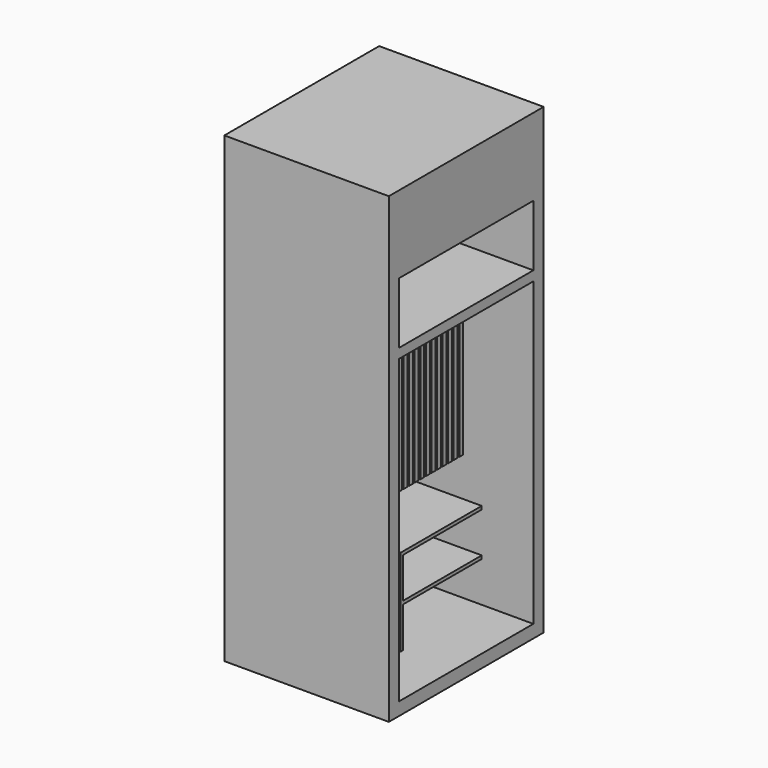
from build123d import *

# Parameters (mm, degrees)
F0_W      = 1020
F0_H      = 1200
F1_DEPTH  = 2870
F2_T      = -80
F3_W      = 80
F3_H      = 1040
F4_DEPTH  = 400
F5_W      = 940
F5_H      = 60
F6_DEPTH  = 1066.8
F7_W      = 620
F7_H      = 820
F8_DEPTH  = 630
F9_W      = 610.0102
F9_H      = 260
F9_H_2    = 250
F10_DEPTH = 620
F11_R     = 35
F12_DEPTH = 1066.8
F13_W     = 19.9898
F13_H     = 260
F13_W_2   = 610.0102
F13_H_2   = 20
F14_DEPTH = 620
F15_W     = 30.48
F15_H     = 965.2
F16_DEPTH = 508


with BuildPart() as f1:
    # F0 (on Top) → F1 (new body)
    with BuildSketch(Plane.XY):
        Rectangle(F0_W, F0_H)
    extrude(amount=F1_DEPTH)

    # F2
    f2_openings = [f1.faces().sort_by_distance(p)[0] for p in [
        (510, 0, 1435),
    ]]
    offset(amount=F2_T, openings=f2_openings)

    # F3 (on face) → F4 (join)
    with BuildSketch(Plane(origin=(0, 0, 2790), x_dir=(1, 0, 0), z_dir=(0, 0, -1))):
        with Locations((470, 0)):
            Rectangle(F3_W, F3_H)
    extrude(amount=F4_DEPTH)

    # F5 (on face) → F6 (join)
    with BuildSketch(Plane(origin=(0, -520, 0), x_dir=(-1, 0, 0), z_dir=(0, 1, 0))):
        with Locations((-40, 1980)):
            Rectangle(F5_W, F5_H)
    extrude(amount=F6_DEPTH)

    # F7 (on face) → F8 (join)
    with BuildSketch(Plane.XZ.offset(-520)):
        with Locations((-120, 490)):
            Rectangle(F7_W, F7_H)
    extrude(amount=F8_DEPTH)

    # F9 (on face) → F10 (cut)
    with BuildSketch(Plane.YZ.offset(190)):
        with Locations((214.9949, 750)):
            Rectangle(F9_W, F9_H)
        with Locations((214.9949, 475)):
            Rectangle(F9_W, F9_H_2)
        with Locations((214.9949, 205)):
            Rectangle(F9_W, F9_H_2)
    extrude(amount=-F10_DEPTH, mode=Mode.SUBTRACT)

    # F11 (on face) → F12 (join)
    with BuildSketch(Plane(origin=(0, -520, 0), x_dir=(-1, 0, 0), z_dir=(0, 1, 0))):
        with Locations((150, 1880)):
            Circle(F11_R)
    extrude(amount=F12_DEPTH)

    # F13 (on face) → F14 (cut)
    with BuildSketch(Plane.YZ.offset(190)):
        with Locations((-100.0051, 750)):
            Rectangle(F13_W, F13_H)
        with Locations((214.9949, 890)):
            Rectangle(F13_W_2, F13_H_2)
        with Locations((-100.0051, 890)):
            Rectangle(F13_W, F13_H_2)
    extrude(amount=-F14_DEPTH, mode=Mode.SUBTRACT)

    # F15 (on face) → F16 (join)
    with BuildSketch(Plane.YZ.offset(-430)):
        with Locations((-492.06, 1347.4)):
            Rectangle(F15_W, F15_H)
        with Locations((-448.88, 1347.4)):
            Rectangle(F15_W, F15_H)
        with Locations((-405.7, 1347.4)):
            Rectangle(F15_W, F15_H)
        with Locations((-362.52, 1347.4)):
            Rectangle(F15_W, F15_H)
        with Locations((-319.34, 1347.4)):
            Rectangle(F15_W, F15_H)
        with Locations((-276.16, 1347.4)):
            Rectangle(F15_W, F15_H)
        with Locations((-232.98, 1347.4)):
            Rectangle(F15_W, F15_H)
        with Locations((-189.8, 1347.4)):
            Rectangle(F15_W, F15_H)
        with Locations((-146.62, 1347.4)):
            Rectangle(F15_W, F15_H)
        with Locations((-103.44, 1347.4)):
            Rectangle(F15_W, F15_H)
        with Locations((-60.26, 1347.4)):
            Rectangle(F15_W, F15_H)
        with Locations((-17.08, 1347.4)):
            Rectangle(F15_W, F15_H)
        with Locations((26.1, 1347.4)):
            Rectangle(F15_W, F15_H)
        with Locations((69.28, 1347.4)):
            Rectangle(F15_W, F15_H)
        with Locations((112.46, 1347.4)):
            Rectangle(F15_W, F15_H)
        with Locations((155.64, 1347.4)):
            Rectangle(F15_W, F15_H)
        with Locations((198.82, 1347.4)):
            Rectangle(F15_W, F15_H)
        with Locations((242, 1347.4)):
            Rectangle(F15_W, F15_H)
        with Locations((285.18, 1347.4)):
            Rectangle(F15_W, F15_H)
        with Locations((328.36, 1347.4)):
            Rectangle(F15_W, F15_H)
        with Locations((371.54, 1347.4)):
            Rectangle(F15_W, F15_H)
        with Locations((414.72, 1347.4)):
            Rectangle(F15_W, F15_H)
        with Locations((457.9, 1347.4)):
            Rectangle(F15_W, F15_H)
        with Locations((501.08, 1347.4)):
            Rectangle(F15_W, F15_H)
    extrude(amount=F16_DEPTH)


solid = f1.part
